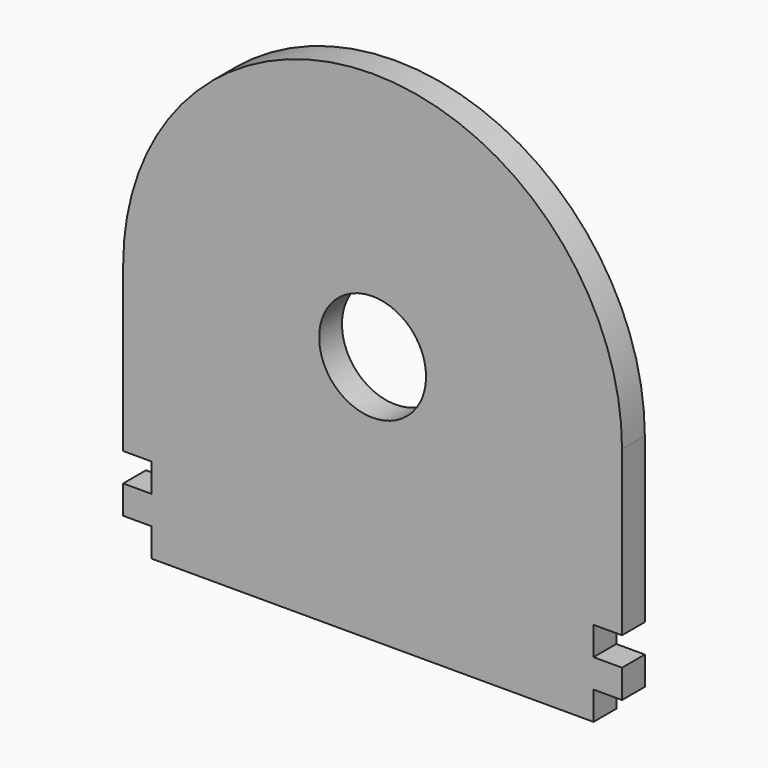
from build123d import *

# Parameters (mm, degrees)
F0_R     = 7.5
F1_DEPTH = 4


with BuildPart() as f1:
    # F0 (on Front) → F1 (new body)
    with BuildSketch(Plane.XZ):
        with BuildLine():
            ThreePointArc((0, -35), (24.748737, -24.748737), (35, 0))
            ThreePointArc((35, 0), (0, 35), (-35, 0))
            ThreePointArc((-35, 0), (-24.748737, -24.748737), (0, -35))
        make_face()
        Circle(F0_R, mode=Mode.SUBTRACT)
        with BuildLine():
            ThreePointArc((0, -35), (-24.748737, -24.748737), (-35, 0))
            Line((-35, 0), (-35, -23))
            Line((-35, -23), (-31, -23))
            Line((-31, -23), (-31, -27))
            Line((-31, -27), (-35, -27))
            Line((-35, -27), (-35, -31))
            Line((-35, -31), (-31, -31))
            Line((-31, -31), (-31, -35))
            Line((-31, -35), (0, -35))
        make_face()
        with BuildLine():
            Line((35, -23), (35, 0))
            ThreePointArc((35, 0), (24.748737, -24.748737), (0, -35))
            Line((0, -35), (31, -35))
            Line((31, -35), (31, -31))
            Line((31, -31), (35, -31))
            Line((35, -31), (35, -27))
            Line((35, -27), (31, -27))
            Line((31, -27), (31, -23))
            Line((31, -23), (35, -23))
        make_face()
    extrude(amount=F1_DEPTH)


solid = f1.part
